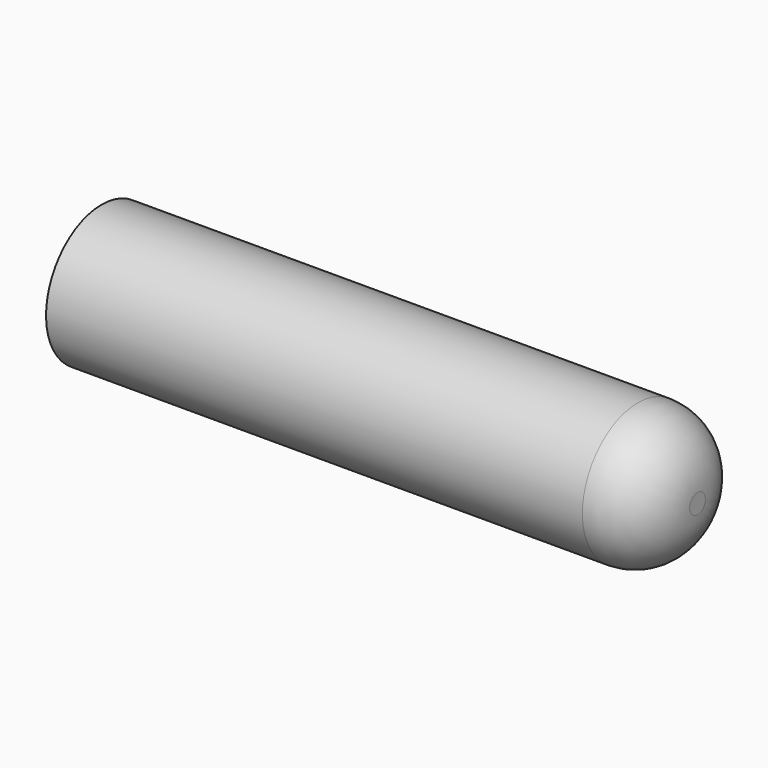
from build123d import *

# Parameters (mm, degrees)
F2_R = 5


with BuildPart() as f1:
    # F0 (on Front) → F1 (revolve)
    with BuildSketch(Plane.XZ):
        Polygon((38.381275, 5.825), (-11.618725, 5.825), (-11.618725, 4.825), (8.381275, 4.825), (8.381275, 0.6), (36.381275, 0.6), (36.381275, 0), (38.381275, 0), align=None)
    revolve(axis=Axis((20.152785, 0, 0), (1, 0, 0)))

    # F2
    f2_edges = [f1.edges().sort_by_distance(p)[0] for p in [
        (38.381275, 0, -5.825),
    ]]
    fillet(f2_edges, radius=F2_R)


solid = f1.part
